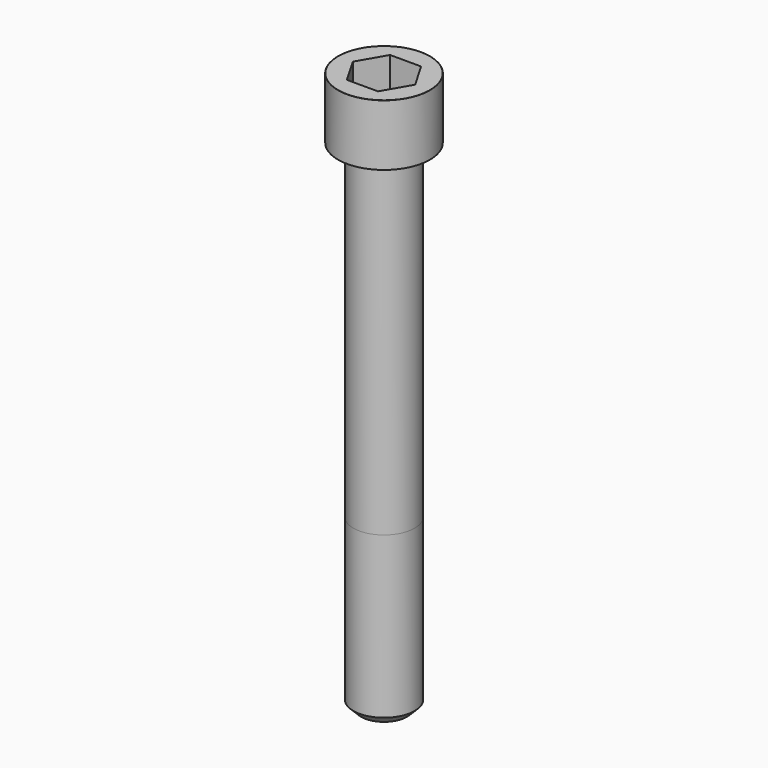
from build123d import *

# Parameters (mm, degrees)
POCKET_DEPTH = 14.08


with BuildPart() as part:
    # Sketch → Revolve (revolve)
    with BuildSketch(Plane.YZ):
        with BuildLine():
            Line((7.999, 0), (12, 0))
            Line((12, 0), (12, 15.97229))
            ThreePointArc((12, 15.97229), (11.991884, 15.991884), (11.97229, 16))
            Line((11.97229, 16), (0, 16))
            Line((0, -130), (0, 16))
            Line((6, -130), (0, -130))
            Line((8, -128), (6, -130))
            Line((8, -86), (8, -128))
            Line((7.999, 0), (8, -86))
        make_face()
    revolve(axis=Axis((0, 0, 0), (0, 0, 1)))

    # Sketch001 → Pocket (cut)
    with BuildSketch(Plane.XY.offset(16)):
        Polygon((8.129092, 0), (4.064546, 7.04), (-4.064546, 7.04), (-8.129092, 0), (-4.064546, -7.04), (4.064546, -7.04), align=None)
    extrude(amount=-POCKET_DEPTH, mode=Mode.SUBTRACT)


solid = part.part
